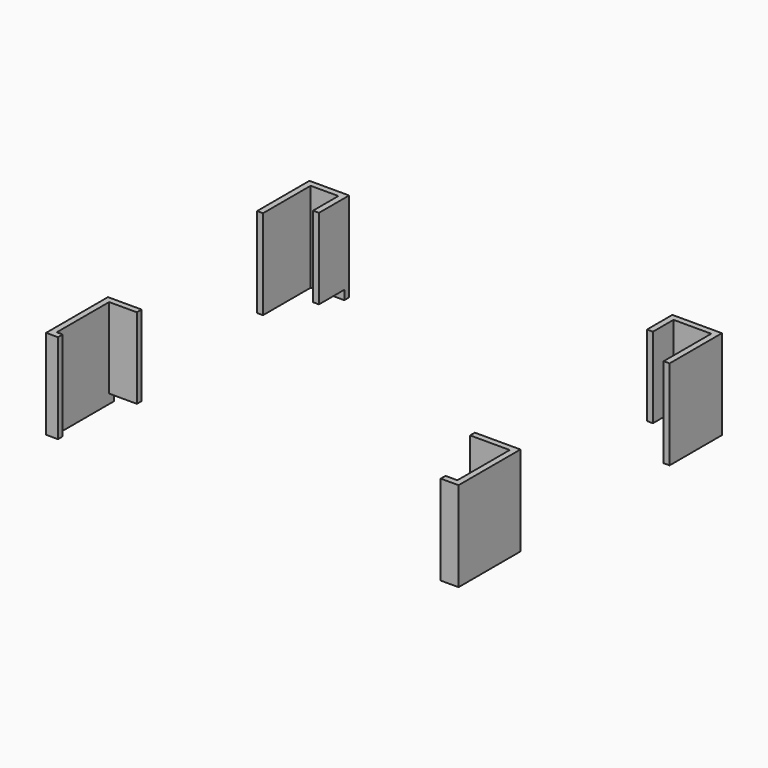
from build123d import *

# Parameters (mm, degrees)
SKETCH068_W      = 80
SKETCH068_H      = 3
EXTRUDE058_DEPTH = 101
EXTRUDE057_DEPTH = 22.64


with BuildPart() as extrude058:
    # Sketch068 → Extrude058 (new body)
    with BuildSketch(Plane.YZ.offset(321.5)):
        with Locations((221.5, -16.5)):
            Rectangle(SKETCH068_W, SKETCH068_H)
    extrude(amount=-EXTRUDE058_DEPTH)


with BuildPart() as obj1:
    # Sketch067 → Extrude057 (new body)
    with BuildSketch(Plane(origin=(0, 0, 5.32), x_dir=(1, 0, 0), z_dir=(0, 0, -1))):
        Polygon((321.5, -246.5), (323, -246.5), (323, -263), (310.5, -263), (310.5, -255), (312, -255), (312, -261.5), (321.5, -261.5), align=None)
        Polygon((220.5, -246.5), (220.5, -261.5), (227.5, -261.5), (227.5, -253.5), (229, -253.5), (229, -263), (219, -263), (219, -246.5), align=None)
        Polygon((227.5, -199.5), (227.5, -198), (220.5, -198), (220.5, -181.5), (222, -181.5), (222, -180), (219, -180), (219, -199.5), align=None)
        Polygon((311.5, -199.5), (311.5, -198), (321.5, -198), (321.5, -181.5), (318.5, -181.5), (318.5, -180), (323, -180), (323, -199.5), align=None)
    extrude(amount=EXTRUDE057_DEPTH)

    # Cut005: cut Extrude058
    add(extrude058.part, mode=Mode.SUBTRACT)


solid = obj1.part
